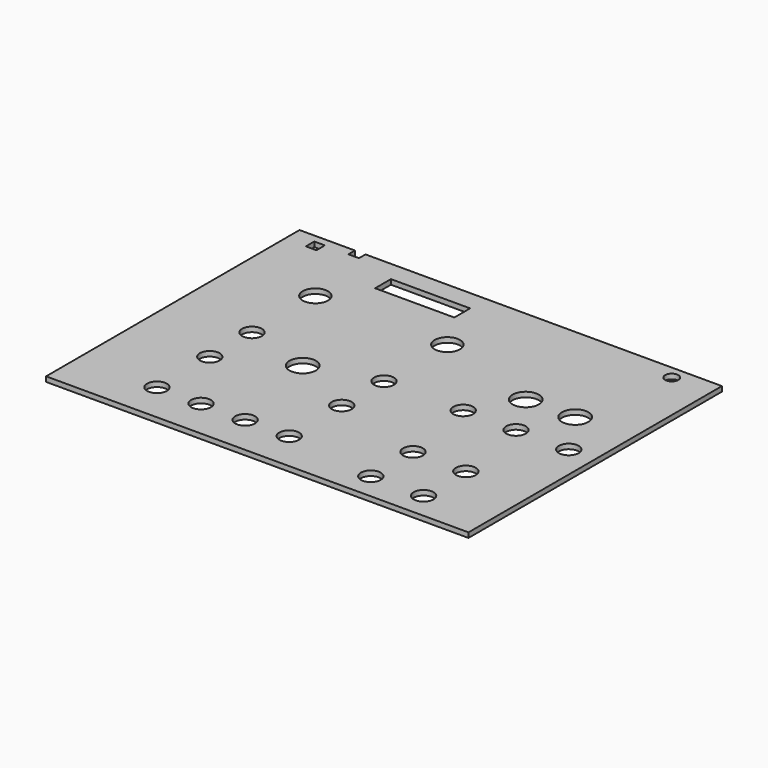
from build123d import *

# Parameters (mm, degrees)
F0_W     = 406.4
F0_H     = 304.8
F1_DEPTH = 4.7625
F2_R     = 12.192
F2_R_2   = 9.525
F2_W     = 10.16
F2_H     = 7.874
F2_R_3   = 12.7
F2_R_4   = 6.35
F2_R_5   = 3.175
F2_H_2   = 10.16
F3_DEPTH = 25.4
F4_R     = 9.525
F4_W     = 76.2
F4_H     = 19.05
F5_DEPTH = 25.4


with BuildPart() as f1:
    # F0 (on Top) → F1 (new body)
    with BuildSketch(Plane.XY):
        with Locations((-15.715082, 10.855626)):
            Rectangle(F0_W, F0_H)
    extrude(amount=F1_DEPTH)

    # F2 (on Top) → F3 (cut)
    with BuildSketch(Plane.XY):
        with Locations((-142.715082, 87.055626)):
            Circle(F2_R)
        with Locations((-142.715082, 10.855626)):
            Circle(F2_R_2)
        with Locations((-142.715082, -39.944374)):
            Circle(F2_R_2)
        with Locations((-15.715082, -39.944374)):
            Circle(F2_R_2)
        with Locations((-15.715082, 10.855626)):
            Circle(F2_R_2)
        with Locations((-160.495082, 159.318626)):
            Rectangle(F2_W, F2_H)
        with Locations((60.484918, 10.855626)):
            Circle(F2_R_2)
        with Locations((111.284918, 10.855626)):
            Circle(F2_R_2)
        with Locations((162.084918, 10.855626)):
            Circle(F2_R_2)
        with Locations((86.052007, 54.064918)):
            Circle(F2_R_3)
        with Locations((132.892046, 54.978594)):
            Circle(F2_R_3)
        with Locations((-79.215082, -7.533974)):
            Circle(F2_R_3)
        with Locations((149.384918, 150.555626)):
            Circle(F2_R_4)
        with Locations((-52.545082, 131.124626)):
            Circle(F2_R_5)
        with Locations((-103.345082, 131.124626)):
            Circle(F2_R_5)
        with Locations((-193.515082, 150.555626)):
            Rectangle(F2_W, F2_H_2)
        with Locations((-15.715082, 87.055626)):
            Circle(F2_R)
    extrude(amount=F3_DEPTH, mode=Mode.SUBTRACT)

    # F4 (on face) → F5 (cut)
    with BuildSketch(Plane.XY.offset(4.7625)):
        with Locations((-142.715082, -103.444374)):
            Circle(F4_R)
        with Locations((-100.297082, -103.444374)):
            Circle(F4_R)
        with Locations((73.184918, -65.344374)):
            Circle(F4_R)
        with Locations((73.184918, -116.144374)):
            Circle(F4_R)
        with Locations((123.984918, -65.344374)):
            Circle(F4_R)
        with Locations((123.984918, -116.144374)):
            Circle(F4_R)
        with Locations((-57.879082, -103.444374)):
            Circle(F4_R)
        with Locations((-15.461082, -103.444374)):
            Circle(F4_R)
        with Locations((-77.310082, 134.299626)):
            Rectangle(F4_W, F4_H)
    extrude(amount=-F5_DEPTH, mode=Mode.SUBTRACT)


solid = f1.part
